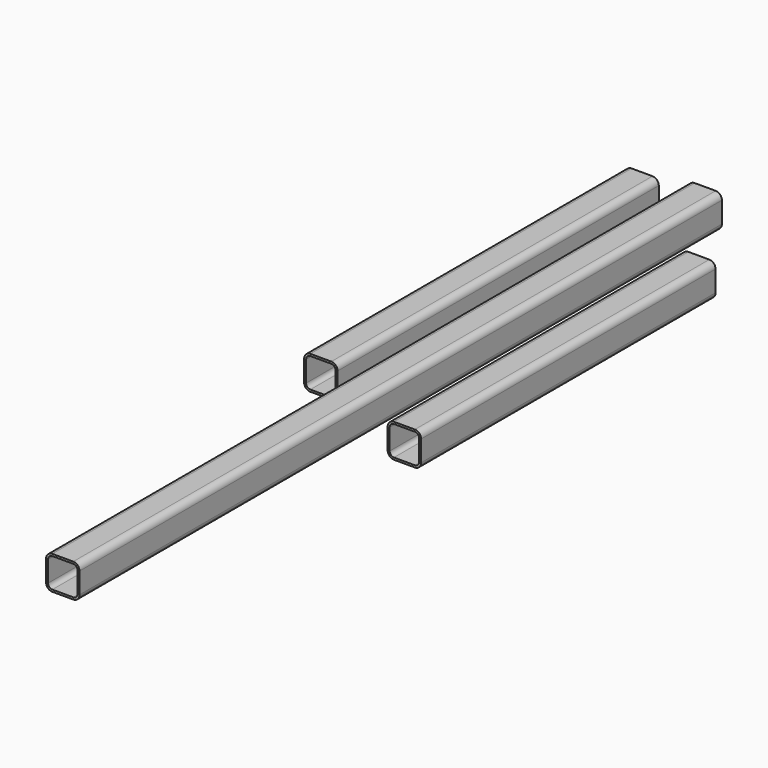
from build123d import *

# Parameters (mm, degrees)
F1_DEPTH = 609.6
F3_DEPTH = 1219.2
F5_DEPTH = 558.8


with BuildPart() as f1:
    # F0 (on Front) → F1 (new body)
    with BuildSketch(Plane.XZ):
        with BuildLine():
            Line((-41.20435, 63.806982), (-72.95435, 63.806982))
            ThreePointArc((-72.95435, 63.806982), (-79.689542, 61.017174), (-82.47935, 54.281982))
            Line((-82.47935, 54.281982), (-82.47935, 22.531982))
            ThreePointArc((-82.47935, 22.531982), (-79.689542, 15.79679), (-72.95435, 13.006982))
            Line((-72.95435, 13.006982), (-41.20435, 13.006982))
            ThreePointArc((-41.20435, 13.006982), (-34.469158, 15.79679), (-31.67935, 22.531982))
            Line((-31.67935, 22.531982), (-31.67935, 54.281982))
            ThreePointArc((-31.67935, 54.281982), (-34.469158, 61.017174), (-41.20435, 63.806982))
        make_face()
        with BuildLine():
            ThreePointArc((-79.43135, 54.281982), (-77.534281, 58.861912), (-72.95435, 60.758982))
            Line((-72.95435, 60.758982), (-41.20435, 60.758982))
            ThreePointArc((-41.20435, 60.758982), (-36.62442, 58.861912), (-34.72735, 54.281982))
            Line((-34.72735, 54.281982), (-34.72735, 22.531982))
            ThreePointArc((-34.72735, 22.531982), (-36.62442, 17.952051), (-41.20435, 16.054982))
            Line((-41.20435, 16.054982), (-72.95435, 16.054982))
            ThreePointArc((-72.95435, 16.054982), (-77.534281, 17.952051), (-79.43135, 22.531982))
            Line((-79.43135, 22.531982), (-79.43135, 54.281982))
        make_face(mode=Mode.SUBTRACT)
    extrude(amount=F1_DEPTH)


with BuildPart() as f3:
    # F2 (on Front) → F3 (new body)
    with BuildSketch(Plane.XZ):
        with BuildLine():
            Line((54.68104, 75.42762), (22.93104, 75.42762))
            ThreePointArc((22.93104, 75.42762), (16.195848, 72.637812), (13.40604, 65.90262))
            Line((13.40604, 65.90262), (13.40604, 34.15262))
            ThreePointArc((13.40604, 34.15262), (16.195848, 27.417428), (22.93104, 24.62762))
            Line((22.93104, 24.62762), (54.68104, 24.62762))
            ThreePointArc((54.68104, 24.62762), (61.416232, 27.417428), (64.20604, 34.15262))
            Line((64.20604, 34.15262), (64.20604, 65.90262))
            ThreePointArc((64.20604, 65.90262), (61.416232, 72.637812), (54.68104, 75.42762))
        make_face()
        with BuildLine():
            ThreePointArc((16.45404, 65.90262), (18.351109, 70.482551), (22.93104, 72.37962))
            Line((22.93104, 72.37962), (54.68104, 72.37962))
            ThreePointArc((54.68104, 72.37962), (59.26097, 70.482551), (61.15804, 65.90262))
            Line((61.15804, 65.90262), (61.15804, 34.15262))
            ThreePointArc((61.15804, 34.15262), (59.26097, 29.572689), (54.68104, 27.67562))
            Line((54.68104, 27.67562), (22.93104, 27.67562))
            ThreePointArc((22.93104, 27.67562), (18.351109, 29.572689), (16.45404, 34.15262))
            Line((16.45404, 34.15262), (16.45404, 65.90262))
        make_face(mode=Mode.SUBTRACT)
    extrude(amount=F3_DEPTH)


with BuildPart() as f5:
    # F4 (on Front) → F5 (new body)
    with BuildSketch(Plane.XZ):
        with BuildLine():
            Line((45.00455, -19.645152), (13.25455, -19.645152))
            ThreePointArc((13.25455, -19.645152), (6.519358, -22.43496), (3.72955, -29.170152))
            Line((3.72955, -29.170152), (3.72955, -60.920152))
            ThreePointArc((3.72955, -60.920152), (6.519358, -67.655344), (13.25455, -70.445152))
            Line((13.25455, -70.445152), (45.00455, -70.445152))
            ThreePointArc((45.00455, -70.445152), (51.739742, -67.655344), (54.52955, -60.920152))
            Line((54.52955, -60.920152), (54.52955, -29.170152))
            ThreePointArc((54.52955, -29.170152), (51.739742, -22.43496), (45.00455, -19.645152))
        make_face()
        with BuildLine():
            ThreePointArc((6.77755, -29.170152), (8.674619, -24.590222), (13.25455, -22.693152))
            Line((13.25455, -22.693152), (45.00455, -22.693152))
            ThreePointArc((45.00455, -22.693152), (49.58448, -24.590222), (51.48155, -29.170152))
            Line((51.48155, -29.170152), (51.48155, -60.920152))
            ThreePointArc((51.48155, -60.920152), (49.58448, -65.500083), (45.00455, -67.397152))
            Line((45.00455, -67.397152), (13.25455, -67.397152))
            ThreePointArc((13.25455, -67.397152), (8.674619, -65.500083), (6.77755, -60.920152))
            Line((6.77755, -60.920152), (6.77755, -29.170152))
        make_face(mode=Mode.SUBTRACT)
    extrude(amount=F5_DEPTH)


solid = Compound([f1.part, f3.part, f5.part])
